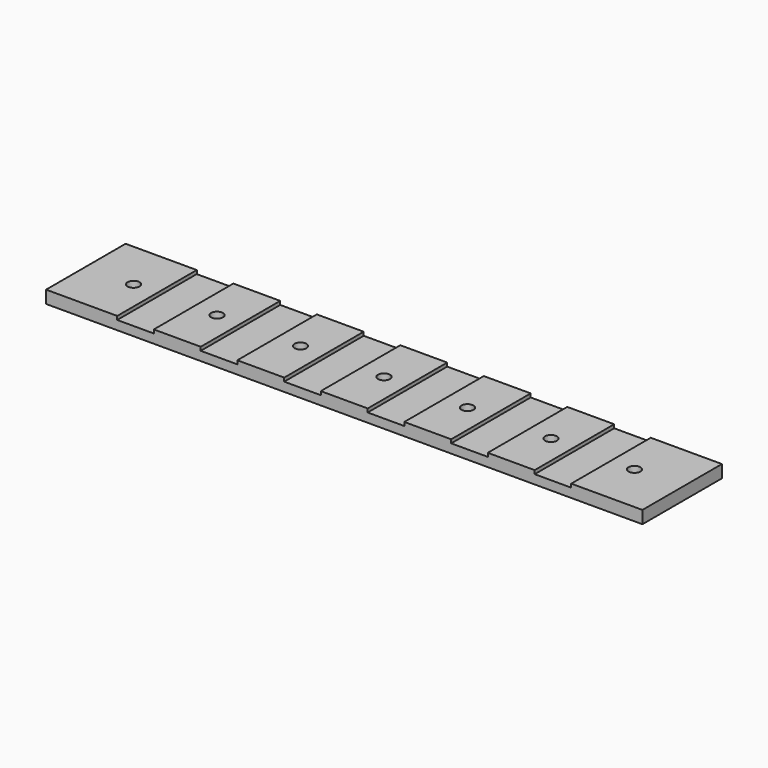
from build123d import *

# Parameters (mm, degrees)
F0_W     = 150
F0_H     = 25
F1_DEPTH = 3.175
F2_W     = 9.2
F2_H     = 25
F3_DEPTH = 0.9
F4_R     = 1.5
F5_DEPTH = 25


with BuildPart() as f1:
    # F0 (on Top) → F1 (new body)
    with BuildSketch(Plane.XY):
        with Locations((75, 12.5)):
            Rectangle(F0_W, F0_H)
    extrude(amount=F1_DEPTH)

    # F2 (on face) → F3 (cut)
    with BuildSketch(Plane.XY.offset(3.175)):
        with Locations((22.5, 12.5)):
            Rectangle(F2_W, F2_H)
        with Locations((43.5, 12.5)):
            Rectangle(F2_W, F2_H)
        with Locations((64.5, 12.5)):
            Rectangle(F2_W, F2_H)
        with Locations((85.5, 12.5)):
            Rectangle(F2_W, F2_H)
        with Locations((106.5, 12.5)):
            Rectangle(F2_W, F2_H)
        with Locations((127.5, 12.5)):
            Rectangle(F2_W, F2_H)
    extrude(amount=-F3_DEPTH, mode=Mode.SUBTRACT)

    # F4 (on face) → F5 (cut)
    with BuildSketch(Plane.XY.offset(3.175)):
        with Locations((12, 12.5)):
            Circle(F4_R)
        with Locations((33, 12.5)):
            Circle(F4_R)
        with Locations((54, 12.5)):
            Circle(F4_R)
        with Locations((75, 12.5)):
            Circle(F4_R)
        with Locations((96, 12.5)):
            Circle(F4_R)
        with Locations((117, 12.5)):
            Circle(F4_R)
        with Locations((138, 12.5)):
            Circle(F4_R)
    extrude(amount=-F5_DEPTH, mode=Mode.SUBTRACT)


solid = f1.part
